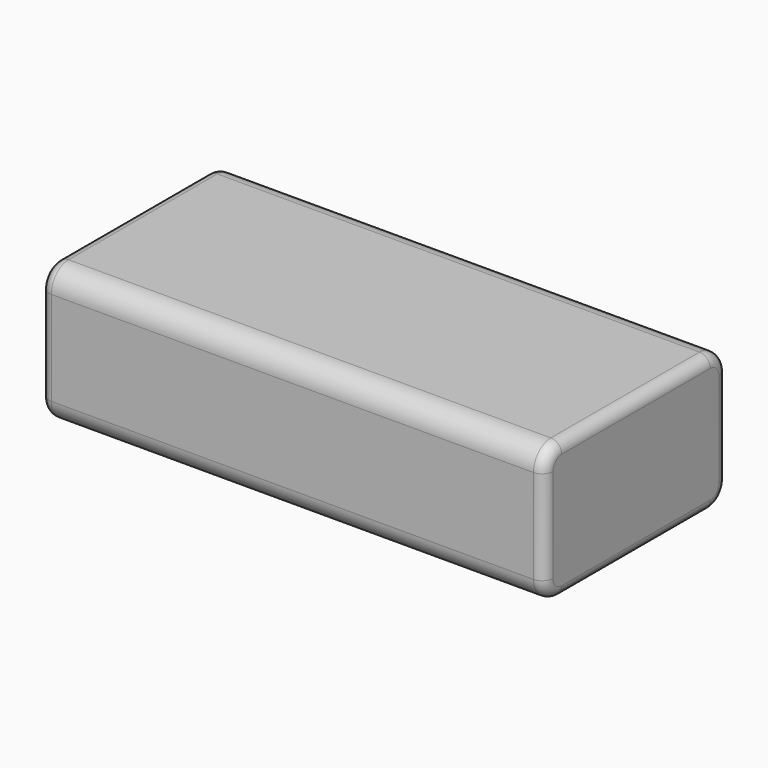
from build123d import *

# Parameters (mm, degrees)
F0_W     = 34.925
F0_H     = 15.875
F1_DEPTH = 19.05
F2_R     = 3
F3_R     = 1.5


with BuildPart() as f1:
    # F0 (on Top) → F1 (new body)
    with BuildSketch(Plane.XY):
        with Locations((-17.4625, 7.9375)):
            Rectangle(F0_W, F0_H)
        Polygon((34.925, 15.875), (0, 15.875), (0, 0), (-34.925, 0), (-34.925, -15.875), (34.925, -15.875), align=None)
    extrude(amount=F1_DEPTH)

    # F2
    f2_edges = [f1.edges().sort_by_distance(p)[0] for p in [
        (0, -15.875, 19.05),
        (0, -15.875, 0),
        (0, 15.875, 19.05),
        (0, 15.875, 0),
    ]]
    fillet(f2_edges, radius=F2_R)

    # F3
    f3_edges = [f1.edges().sort_by_distance(p)[0] for p in [
        (-34.925, 0, 19.05),
        (34.925, 0, 19.05),
    ]]
    fillet(f3_edges, radius=F3_R)


solid = f1.part
